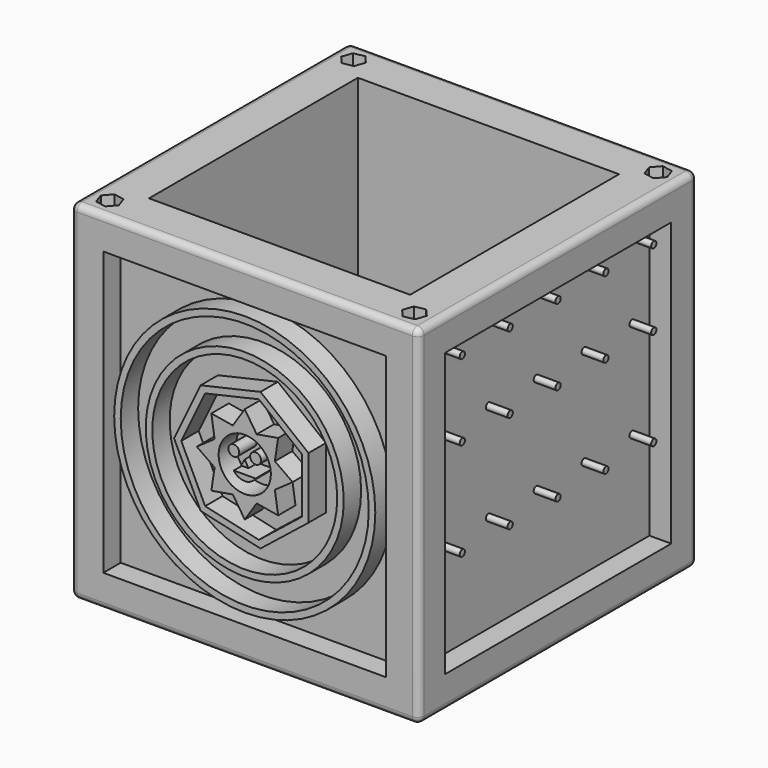
from build123d import *

# Parameters (mm, degrees)
F0_W      = 203.2
F0_H      = 203.2
F1_DEPTH  = 101.6
F2_W      = 152.4
F2_H      = 152.4
F3_DEPTH  = 177.8
F4_W      = 165.1
F4_H      = 165.1
F4_R      = 1.905
F5_DEPTH  = 12.7
F6_R      = 53.975005
F7_DEPTH  = 12.7
F6_W      = 165.1
F6_H      = 165.1
F6_R_2    = 76.2
F8_DEPTH  = 12.7
F9_W      = 165.1
F9_H      = 165.1
F9_R      = 9.0932
F9_R_2    = 7.4295
F9_R_3    = 9.2583
F9_R_4    = 9.4996
F9_R_5    = 8.8773
F9_R_6    = 8.6741
F9_R_7    = 9.9187
F9_R_8    = 8.4582
F9_R_9    = 7.6327
F9_R_10   = 7.8486
F9_R_11   = 9.7028
F9_R_12   = 8.255
F9_R_13   = 8.0518
F10_DEPTH = 12.7
F11_W     = 165.1
F11_H     = 165.1
F11_R     = 1.905
F12_DEPTH = 12.7
F11_R_2   = 25.4
F13_DEPTH = 12.7
F11_R_3   = 21.59
F11_W_2   = 25.4
F11_H_2   = 6.35
F11_R_4   = 3.175
F14_DEPTH = 12.7
F15_DEPTH = 12.7
F6_R_3    = 15.24
F6_R_4    = 3.175
F16_DEPTH = 12.7
F6_R_5    = 72.39
F6_R_6    = 57.785005
F17_DEPTH = 12.7
F18_DEPTH = 6.35
F19_R     = 3.81


with BuildPart() as f1:
    # F0 (on Front) → F1 (new body, symmetric)
    with BuildSketch(Plane.XZ):
        Rectangle(F0_W, F0_H)
    extrude(amount=F1_DEPTH, both=True)

    # F2 (on face) → F3 (cut)
    with BuildSketch(Plane.XY.offset(101.6)):
        Rectangle(F2_W, F2_H)
    extrude(amount=-F3_DEPTH, mode=Mode.SUBTRACT)

    # F4 (on face) → F5 (cut)
    with BuildSketch(Plane.YZ.offset(101.6)):
        Rectangle(F4_W, F4_H)
        with Locations((-69.85, -25.4)):
            Circle(F4_R, mode=Mode.SUBTRACT)
        with Locations((-34.925, -25.4)):
            Circle(F4_R, mode=Mode.SUBTRACT)
        with Locations((0, -25.4)):
            Circle(F4_R, mode=Mode.SUBTRACT)
        with Locations((34.925, -25.4)):
            Circle(F4_R, mode=Mode.SUBTRACT)
        with Locations((69.85, -25.4)):
            Circle(F4_R, mode=Mode.SUBTRACT)
        with Locations((-69.85, 31.75)):
            Circle(F4_R, mode=Mode.SUBTRACT)
        with Locations((-34.925, 31.75)):
            Circle(F4_R, mode=Mode.SUBTRACT)
        with Locations((0, 31.75)):
            Circle(F4_R, mode=Mode.SUBTRACT)
        with Locations((-69.85, 76.2)):
            Circle(F4_R, mode=Mode.SUBTRACT)
        with Locations((-34.925, 76.2)):
            Circle(F4_R, mode=Mode.SUBTRACT)
        with Locations((0, 76.2)):
            Circle(F4_R, mode=Mode.SUBTRACT)
        with Locations((34.925, 31.75)):
            Circle(F4_R, mode=Mode.SUBTRACT)
        with Locations((69.85, 31.75)):
            Circle(F4_R, mode=Mode.SUBTRACT)
        with Locations((34.925, 76.2)):
            Circle(F4_R, mode=Mode.SUBTRACT)
        with Locations((69.85, 76.2)):
            Circle(F4_R, mode=Mode.SUBTRACT)
    extrude(amount=-F5_DEPTH, mode=Mode.SUBTRACT)

    # F6 (on face) → F7 (cut)
    with BuildSketch(Plane.XZ.offset(101.6)):
        Circle(F6_R)
        Polygon((-25.734545, -32.270098), (-41.275005, 0), (-25.734545, 32.270098), (9.184553, 40.240154), (37.187494, 17.908553), (37.187494, -17.908553), (9.184553, -40.240154), align=None, mode=Mode.SUBTRACT)
    extrude(amount=-F7_DEPTH, mode=Mode.SUBTRACT)

    # F6 (on face) → F8 (cut)
    with BuildSketch(Plane.XZ.offset(101.6)):
        Rectangle(F6_W, F6_H)
        Circle(F6_R_2, mode=Mode.SUBTRACT)
    extrude(amount=-F8_DEPTH, mode=Mode.SUBTRACT)

    # F9 (on face) → F10 (cut)
    with BuildSketch(Plane(origin=(-101.6, 0, 0), x_dir=(0, -1, 0), z_dir=(-1, 0, 0))):
        Rectangle(F9_W, F9_H)
        with Locations((-17.660321, -54.35288)):
            Circle(F9_R, mode=Mode.SUBTRACT)
        with Locations((-57.15, 0)):
            Circle(F9_R_2, mode=Mode.SUBTRACT)
        with Locations((-46.235321, -33.591927)):
            Circle(F9_R_3, mode=Mode.SUBTRACT)
        with Locations((-19.05, 0)):
            Circle(F9_R_4, mode=Mode.SUBTRACT)
        with Locations((17.660321, -54.35288)):
            Circle(F9_R_5, mode=Mode.SUBTRACT)
        with Locations((46.235321, -33.591927)):
            Circle(F9_R_6, mode=Mode.SUBTRACT)
        with Locations((9.525, -16.497784)):
            Circle(F9_R_7, mode=Mode.SUBTRACT)
        with Locations((57.15, 0)):
            Circle(F9_R_8, mode=Mode.SUBTRACT)
        with Locations((-46.235321, 33.591927)):
            Circle(F9_R_9, mode=Mode.SUBTRACT)
        with Locations((-17.660321, 54.35288)):
            Circle(F9_R_10, mode=Mode.SUBTRACT)
        with Locations((9.525, 16.497784)):
            Circle(F9_R_11, mode=Mode.SUBTRACT)
        with Locations((46.235321, 33.591927)):
            Circle(F9_R_12, mode=Mode.SUBTRACT)
        with Locations((17.660321, 54.35288)):
            Circle(F9_R_13, mode=Mode.SUBTRACT)
    extrude(amount=-F10_DEPTH, mode=Mode.SUBTRACT)

    # F11 (on face) → F12 (cut)
    with BuildSketch(Plane(origin=(0, 101.6, 0), x_dir=(-1, 0, 0), z_dir=(0, 1, 0))):
        Rectangle(F11_W, F11_H)
        with BuildLine():
            ThreePointArc((-26.23874, -67.945), (-27.085379, -69.52895), (-28.872752, -69.704991))
            ThreePointArc((-28.872752, -69.704991), (-29.903731, -67.215988), (-27.414729, -66.185009))
            ThreePointArc((-27.414729, -66.185009), (-26.559791, -66.886639), (-26.23874, -67.945))
        make_face(mode=Mode.SUBTRACT)
        with Locations((0, -67.945)):
            Circle(F11_R, mode=Mode.SUBTRACT)
        with BuildLine():
            ThreePointArc((-66.04, -28.14374), (-67.573353, -30.012136), (-69.704991, -28.872752))
            ThreePointArc((-69.704991, -28.872752), (-68.674012, -26.38375), (-66.185009, -27.414729))
            ThreePointArc((-66.185009, -27.414729), (-66.076604, -27.772093), (-66.04, -28.14374))
        make_face(mode=Mode.SUBTRACT)
        with Locations((-67.945, 0)):
            Circle(F11_R, mode=Mode.SUBTRACT)
        with Locations((-48.04437, -48.04437)):
            Circle(F11_R, mode=Mode.SUBTRACT)
        with BuildLine():
            ThreePointArc((30.04874, -67.945), (29.72769, -69.003361), (28.872752, -69.704991))
            ThreePointArc((28.872752, -69.704991), (26.38375, -68.674012), (27.414729, -66.185009))
            ThreePointArc((27.414729, -66.185009), (29.202102, -66.36105), (30.04874, -67.945))
        make_face(mode=Mode.SUBTRACT)
        with Locations((48.04437, -48.04437)):
            Circle(F11_R, mode=Mode.SUBTRACT)
        Polygon((18.676228, -57.47952), (-48.895, -35.524297), (-48.895, 35.524297), (18.676228, 57.47952), (60.437544, 0), align=None, mode=Mode.SUBTRACT)
        with BuildLine():
            ThreePointArc((69.85, -28.14374), (69.813396, -28.515388), (69.704991, -28.872752))
            ThreePointArc((69.704991, -28.872752), (67.215988, -29.903731), (66.185009, -27.414729))
            ThreePointArc((66.185009, -27.414729), (68.316647, -26.275345), (69.85, -28.14374))
        make_face(mode=Mode.SUBTRACT)
        with Locations((67.945, 0)):
            Circle(F11_R, mode=Mode.SUBTRACT)
        with BuildLine():
            ThreePointArc((-66.185009, 27.414729), (-68.674012, 26.38375), (-69.704991, 28.872752))
            ThreePointArc((-69.704991, 28.872752), (-67.573353, 30.012136), (-66.04, 28.14374))
            ThreePointArc((-66.04, 28.14374), (-66.076604, 27.772093), (-66.185009, 27.414729))
        make_face(mode=Mode.SUBTRACT)
        with Locations((-48.04437, 48.04437)):
            Circle(F11_R, mode=Mode.SUBTRACT)
        with BuildLine():
            ThreePointArc((-27.414729, 66.185009), (-29.903731, 67.215988), (-28.872752, 69.704991))
            ThreePointArc((-28.872752, 69.704991), (-27.085379, 69.52895), (-26.23874, 67.945))
            ThreePointArc((-26.23874, 67.945), (-26.559791, 66.886639), (-27.414729, 66.185009))
        make_face(mode=Mode.SUBTRACT)
        with Locations((0, 67.945)):
            Circle(F11_R, mode=Mode.SUBTRACT)
        with Locations((48.04437, 48.04437)):
            Circle(F11_R, mode=Mode.SUBTRACT)
        with BuildLine():
            ThreePointArc((66.185009, 27.414729), (67.215988, 29.903731), (69.704991, 28.872752))
            ThreePointArc((69.704991, 28.872752), (69.813396, 28.515388), (69.85, 28.14374))
            ThreePointArc((69.85, 28.14374), (68.316647, 26.275345), (66.185009, 27.414729))
        make_face(mode=Mode.SUBTRACT)
        with BuildLine():
            ThreePointArc((27.414729, 66.185009), (26.38375, 68.674012), (28.872752, 69.704991))
            ThreePointArc((28.872752, 69.704991), (29.72769, 69.003361), (30.04874, 67.945))
            ThreePointArc((30.04874, 67.945), (29.202102, 66.36105), (27.414729, 66.185009))
        make_face(mode=Mode.SUBTRACT)
    extrude(amount=-F12_DEPTH, mode=Mode.SUBTRACT)

    # F11 (on face) → F13 (cut)
    with BuildSketch(Plane(origin=(0, 101.6, 0), x_dir=(-1, 0, 0), z_dir=(0, 1, 0))):
        Polygon((17.220938, 53.000596), (-45.085, 32.75617), (-45.085, -32.75617), (17.220938, -53.000596), (55.728125, 0), align=None)
        Circle(F11_R_2, mode=Mode.SUBTRACT)
    extrude(amount=-F13_DEPTH, mode=Mode.SUBTRACT)

    # F11 (on face) → F14 (cut)
    with BuildSketch(Plane(origin=(0, 101.6, 0), x_dir=(-1, 0, 0), z_dir=(0, 1, 0))):
        Circle(F11_R_3)
        with Locations((0, -12.7)):
            Rectangle(F11_W_2, F11_H_2, mode=Mode.SUBTRACT)
        with Locations((-12.7, 6.35)):
            Circle(F11_R_4, mode=Mode.SUBTRACT)
        Polygon((2.867061, -2.046862), (-2.867061, -2.046862), (0, 3.619041), align=None, mode=Mode.SUBTRACT)
        with Locations((12.7, 6.35)):
            Circle(F11_R_4, mode=Mode.SUBTRACT)
    extrude(amount=-F14_DEPTH, mode=Mode.SUBTRACT)

    # F6 (on face) → F15 (cut)
    with BuildSketch(Plane.XZ.offset(101.6)):
        Polygon((-37.046224, 0), (-23.097943, -28.963904), (8.24356, -36.117398), (33.377494, -16.073754), (33.377494, 16.073754), (8.24356, 36.117398), (-23.097943, 28.963904), align=None)
        Polygon((19.472898, 19.892488), (17.581623, 7.334102), (27.949889, 0), (17.581623, -7.334102), (19.472898, -19.892488), (6.957678, -17.733957), (0, -28.35849), (-6.957678, -17.733957), (-19.480717, -19.846652), (-17.601417, -7.286467), (-28.003215, 0), (-17.601417, 7.286467), (-19.480717, 19.846652), (-6.957678, 17.733957), (0, 28.35849), (6.957678, 17.733957), align=None, mode=Mode.SUBTRACT)
    extrude(amount=-F15_DEPTH, mode=Mode.SUBTRACT)

    # F6 (on face) → F16 (cut)
    with BuildSketch(Plane.XZ.offset(101.6)):
        Circle(F6_R_3)
        with BuildLine():
            ThreePointArc((6.318807, -5.212199), (-0.031074, -8.619907), (-6.380955, -5.212199))
            Line((-6.380955, -5.212199), (6.318807, -5.212199))
        make_face(mode=Mode.SUBTRACT)
        with Locations((-6.380955, 5.041062)):
            Circle(F6_R_4, mode=Mode.SUBTRACT)
        Polygon((2.188591, -1.263584), (-2.188591, -1.263584), (0, 2.527167), align=None, mode=Mode.SUBTRACT)
        with Locations((6.318807, 5.118748)):
            Circle(F6_R_4, mode=Mode.SUBTRACT)
    extrude(amount=-F16_DEPTH, mode=Mode.SUBTRACT)

    # F6 (on face) → F17 (cut)
    with BuildSketch(Plane.XZ.offset(101.6)):
        Circle(F6_R_5)
        Circle(F6_R_6, mode=Mode.SUBTRACT)
    extrude(amount=-F17_DEPTH, mode=Mode.SUBTRACT)

    # F2 (on face) → F18 (cut)
    with BuildSketch(Plane.XY.offset(101.6)):
        Rectangle(F2_W, F2_H)
        Polygon((-90.954848, 82.891664), (-84.724052, 84.116282), (-82.669205, 90.124618), (-86.845152, 94.908336), (-93.075948, 93.683718), (-95.130795, 87.675382), align=None)
        Polygon((-84.724052, -84.116282), (-90.954848, -82.891664), (-95.130795, -87.675382), (-93.075948, -93.683718), (-86.845152, -94.908336), (-82.669205, -90.124618), align=None)
        Polygon((86.845152, 94.908336), (82.669205, 90.124618), (84.724052, 84.116282), (90.954848, 82.891664), (95.130795, 87.675382), (93.075948, 93.683718), align=None)
        Polygon((84.724052, -84.116282), (82.669205, -90.124618), (86.845152, -94.908336), (93.075948, -93.683718), (95.130795, -87.675382), (90.954848, -82.891664), align=None)
    extrude(amount=-F18_DEPTH, mode=Mode.SUBTRACT)

    # F19
    f19_edges = [f1.edges().sort_by_distance(p)[0] for p in [
        (101.6, -101.6, 0),
        (101.6, 101.6, 0),
        (-101.6, 101.6, 0),
        (0, 101.6, -101.6),
        (-101.6, 0, -101.6),
        (101.6, 0, -101.6),
        (0, -101.6, -101.6),
        (-101.6, -101.6, 0),
        (0, -101.6, 101.6),
        (-101.6, 0, 101.6),
        (101.6, 0, 101.6),
        (0, 101.6, 101.6),
    ]]
    fillet(f19_edges, radius=F19_R)


solid = f1.part
